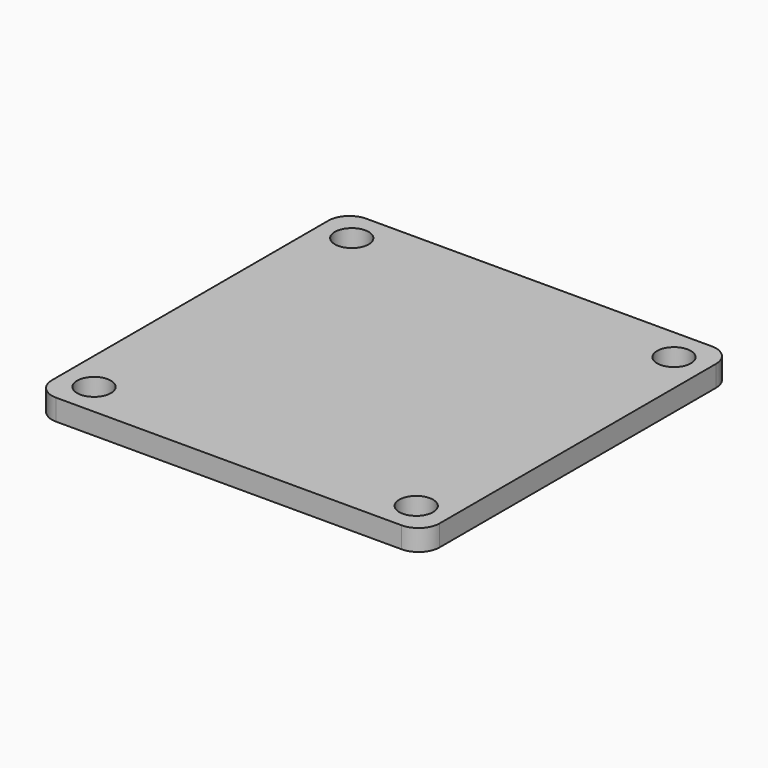
from build123d import *

# Parameters (mm, degrees)
F0_W     = 36.7
F0_H     = 36.7
F0_R     = 1.6
F1_DEPTH = 2
F2_R     = 2


with BuildPart() as f1:
    # F0 (on Top) → F1 (new body)
    with BuildSketch(Plane.XY):
        Rectangle(F0_W, F0_H)
        with Locations((-15.25, -15.25)):
            Circle(F0_R, mode=Mode.SUBTRACT)
        with Locations((15.25, -15.25)):
            Circle(F0_R, mode=Mode.SUBTRACT)
        with Locations((-15.25, 15.25)):
            Circle(F0_R, mode=Mode.SUBTRACT)
        with Locations((15.25, 15.25)):
            Circle(F0_R, mode=Mode.SUBTRACT)
    extrude(amount=F1_DEPTH)

    # F2
    f2_edges = [f1.edges().sort_by_distance(p)[0] for p in [
        (-18.35, 18.35, 1),
        (18.35, 18.35, 1),
        (18.35, -18.35, 1),
        (-18.35, -18.35, 1),
    ]]
    fillet(f2_edges, radius=F2_R)


solid = f1.part
